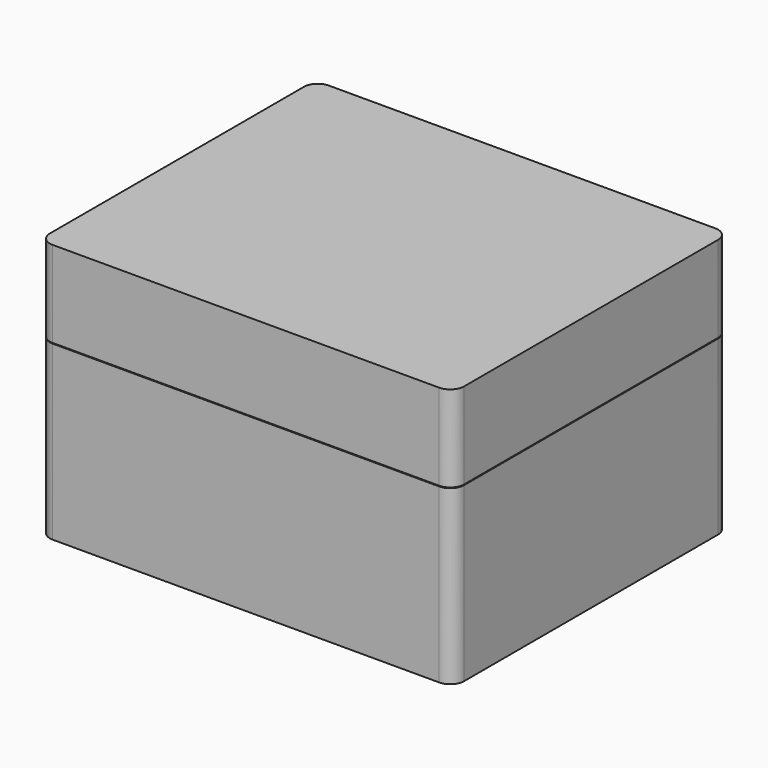
from build123d import *

# Parameters (mm, degrees)
PAD_DEPTH       = 50
PAD001_DEPTH    = 3
POCKET_DEPTH    = 48
PAD002_DEPTH    = 25
THICKNESS_T     = -2
POCKET001_DEPTH = 3


with BuildPart() as base:
    # Sketch → Pad (new body)
    with BuildSketch(Plane.XY):
        with BuildLine():
            Line((-60, 46), (-60, -46))
            ThreePointArc((-60, -46), (-58.828427, -48.828427), (-56, -50))
            Line((-56, -50), (56, -50))
            ThreePointArc((56, -50), (58.828427, -48.828427), (60, -46))
            Line((60, -46), (60, 46))
            ThreePointArc((60, 46), (58.828427, 48.828427), (56, 50))
            Line((56, 50), (-56, 50))
            ThreePointArc((-56, 50), (-58.828427, 48.828427), (-60, 46))
        make_face()
    extrude(amount=PAD_DEPTH)

    # Sketch001 → Pad001 (join)
    with BuildSketch(Plane.XY.offset(50)):
        with BuildLine():
            Line((-59, 46), (-59, -46))
            ThreePointArc((-59, -46), (-58.12132, -48.12132), (-56, -49))
            Line((-56, -49), (56, -49))
            ThreePointArc((56, -49), (58.12132, -48.12132), (59, -46))
            Line((59, -46), (59, 46))
            ThreePointArc((59, 46), (58.12132, 48.12132), (56, 49))
            Line((56, 49), (-56, 49))
            ThreePointArc((-56, 49), (-58.12132, 48.12132), (-59, 46))
        make_face()
        with BuildLine():
            Line((-58, 46), (-58, -46))
            ThreePointArc((-58, -46), (-57.414214, -47.414214), (-56, -48))
            Line((-56, -48), (56, -48))
            ThreePointArc((56, -48), (57.414214, -47.414214), (58, -46))
            Line((58, -46), (58, 46))
            ThreePointArc((58, 46), (57.414214, 47.414214), (56, 48))
            Line((56, 48), (-56, 48))
            ThreePointArc((-56, 48), (-57.414214, 47.414214), (-58, 46))
        make_face(mode=Mode.SUBTRACT)
    extrude(amount=PAD001_DEPTH)

    # Sketch003 (on Face28 of Pad001) → Pocket (cut)
    with BuildSketch(Plane.XY.offset(50)):
        with BuildLine():
            Line((-58, 46), (-58, -46))
            ThreePointArc((-58, -46), (-57.414214, -47.414214), (-56, -48))
            Line((-56, -48), (56, -48))
            ThreePointArc((56, -48), (57.414214, -47.414214), (58, -46))
            Line((58, -46), (58, 46))
            ThreePointArc((58, 46), (57.414214, 47.414214), (56, 48))
            Line((56, 48), (-56, 48))
            ThreePointArc((-56, 48), (-57.414214, 47.414214), (-58, 46))
        make_face()
    extrude(amount=-POCKET_DEPTH, mode=Mode.SUBTRACT)


with BuildPart() as lid:
    # Sketch004 → Pad002 (new body)
    with BuildSketch(Plane.XY.offset(50.2)):
        with BuildLine():
            Line((-60, 46), (-60, -46))
            ThreePointArc((-60, -46), (-58.828427, -48.828427), (-56, -50))
            Line((-56, -50), (56, -50))
            ThreePointArc((56, -50), (58.828427, -48.828427), (60, -46))
            Line((60, -46), (60, 46))
            ThreePointArc((60, 46), (58.828427, 48.828427), (56, 50))
            Line((56, 50), (-56, 50))
            ThreePointArc((-56, 50), (-58.828427, 48.828427), (-60, 46))
        make_face()
    extrude(amount=PAD002_DEPTH)

    # Thickness
    thickness_openings = [lid.faces().sort_by_distance(p)[0] for p in [
        (0, 0, 50.2),
    ]]
    offset(amount=THICKNESS_T, openings=thickness_openings)

    # Sketch005 (on Face10 of Thickness) → Pocket001 (cut)
    with BuildSketch(Plane(origin=(0, 0, 50.2), x_dir=(1, 0, 0), z_dir=(0, 0, -1))):
        with BuildLine():
            Line((-19.1, 25.9), (-19.1, -25.9))
            ThreePointArc((-19.1, -25.9), (-18.162742, -28.162742), (-15.9, -29.1))
            Line((-15.9, -29.1), (15.9, -29.1))
            ThreePointArc((15.9, -29.1), (18.162742, -28.162742), (19.1, -25.9))
            Line((19.1, -25.9), (19.1, 25.9))
            ThreePointArc((19.1, 25.9), (18.162742, 28.162742), (15.9, 29.1))
            Line((15.9, 29.1), (-15.9, 29.1))
            ThreePointArc((-15.9, 29.1), (-18.162742, 28.162742), (-19.1, 25.9))
        make_face()
    extrude(amount=-POCKET001_DEPTH, mode=Mode.SUBTRACT)


solid = Compound([base.part, lid.part])
